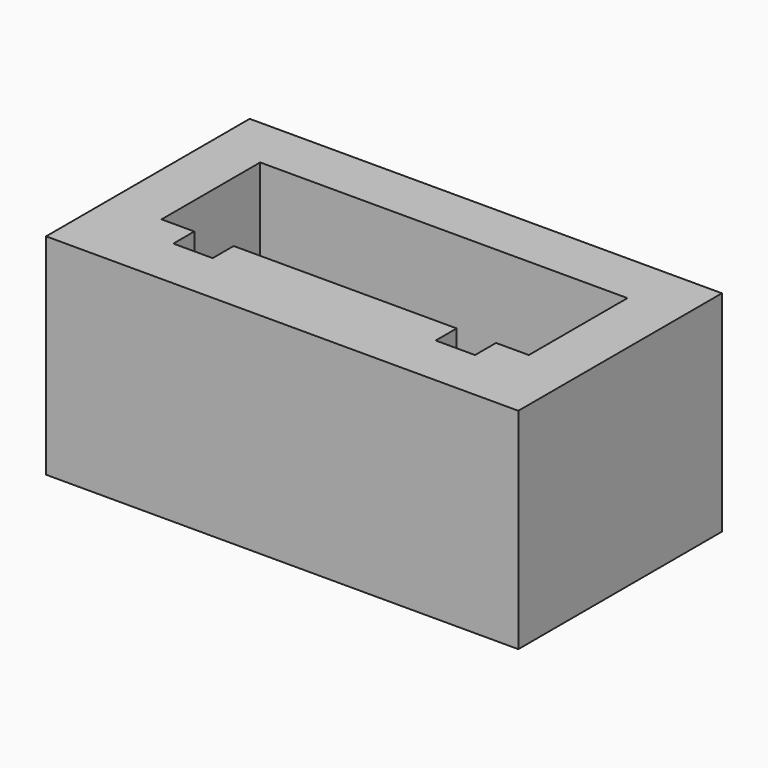
from build123d import *

# Parameters (mm, degrees)
F0_W     = 18
F0_H     = 9.7
F1_DEPTH = 8
F2_DEPTH = 1


with BuildPart() as f1:
    # F0 (on Top) → F1 (new body)
    with BuildSketch(Plane.XY):
        Rectangle(F0_W, F0_H)
        Polygon((-4.25, -2.85), (-5.75, -2.85), (-5.75, -1.85), (-7, -1.85), (-7, 2.85), (7, 2.85), (7, -1.85), (5.75, -1.85), (5.75, -2.85), (4.25, -2.85), (4.25, -1.85), (-4.25, -1.85), align=None, mode=Mode.SUBTRACT)
    extrude(amount=F1_DEPTH)

    # F0 (on Top) → F2 (join)
    with BuildSketch(Plane.XY):
        Polygon((-5.75, -1.85), (-5.75, -2.85), (-4.25, -2.85), (-4.25, -1.85), (4.25, -1.85), (4.25, -2.85), (5.75, -2.85), (5.75, -1.85), (7, -1.85), (7, 2.85), (-7, 2.85), (-7, -1.85), align=None)
    extrude(amount=F2_DEPTH)


solid = f1.part
